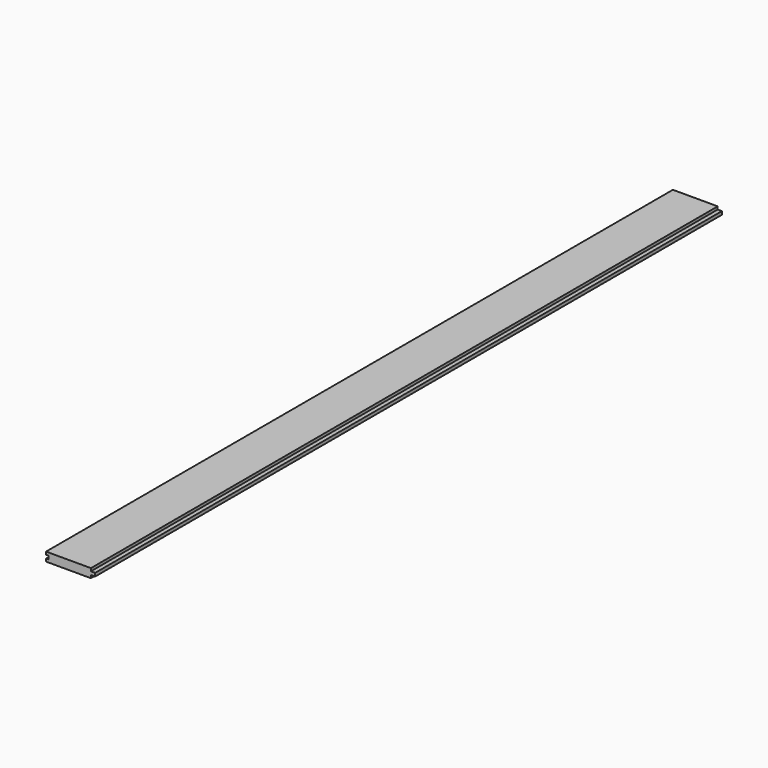
from build123d import *

# Parameters (mm, degrees)
F1_DEPTH = 1677.5
F2_DEPTH = 1677.5


with BuildPart() as f1:
    # F0 (on Front) → F1 (new body)
    with BuildSketch(Plane.XZ):
        Polygon((0, 6), (0, 0), (96, 0), (96, 6), (105, 6), (105, 13), (96, 13), (96, 19), (0, 19), (0, 13), (5, 13), (5, 6), align=None)
    extrude(amount=F1_DEPTH)


with BuildPart() as f2:
    # F0 (on Front) → F2 (new body)
    with BuildSketch(Plane.XZ):
        Polygon((0, 6), (0, 0), (96, 0), (96, 6), (105, 6), (105, 13), (96, 13), (96, 19), (0, 19), (0, 13), (5, 13), (5, 6), align=None)
    extrude(amount=F2_DEPTH)


solid = Compound([f1.part, f2.part])
